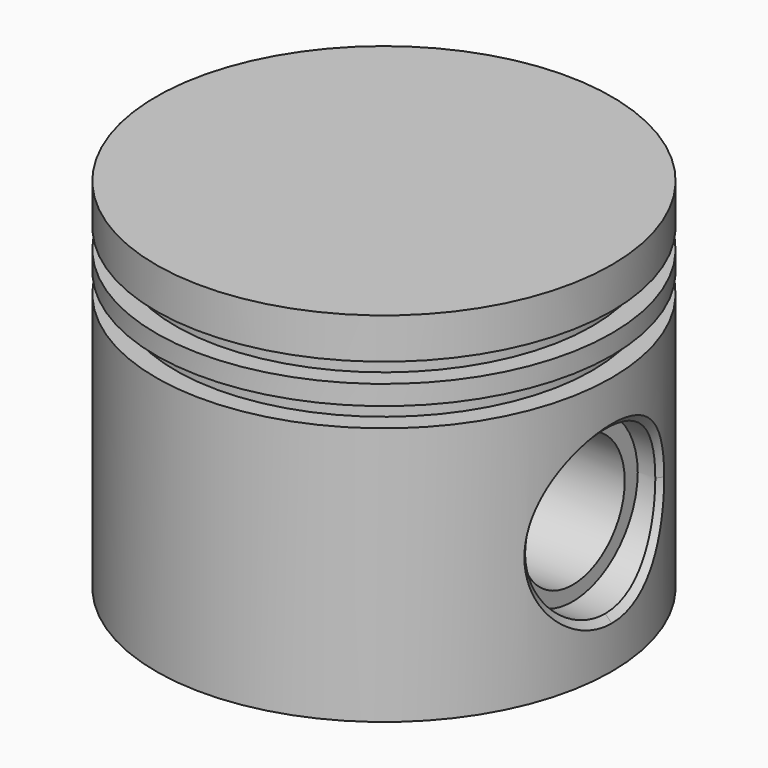
from build123d import *

# Parameters (mm, degrees)
SKETCH020_R     = 12.5
POCKET002_DEPTH = 43
SKETCH022_R     = 12.5
SKETCH022_R_2   = 10
PAD011_DEPTH    = 29
POCKET003_DEPTH = 14
SKETCH024_W     = 3
SKETCH024_H     = 3
CHAMFER005_SIZE = 1
CHAMFER006_SIZE = 1


with BuildPart() as part:
    # Sketch019 → Revolution001 (revolve)
    with BuildSketch(Plane.XZ):
        Polygon((0, 55), (0, 45), (25, 45), (25, 0), (35, 0), (35, 55), align=None)
    revolve(axis=Axis((0, 0, 0), (0, 0, 1)))

    # Sketch020 → Pocket002 (cut, symmetric)
    with BuildSketch(Plane.YZ):
        with Locations((0, 20)):
            Circle(SKETCH020_R)
    extrude(amount=POCKET002_DEPTH, both=True, mode=Mode.SUBTRACT)

    # Sketch022 → Pad011 (join, symmetric)
    with BuildSketch(Plane.YZ):
        with Locations((0, 19.761017)):
            Circle(SKETCH022_R)
        with Locations((0, 19.761017)):
            Circle(SKETCH022_R_2, mode=Mode.SUBTRACT)
    extrude(amount=PAD011_DEPTH, both=True)

    # Sketch022 → Pocket003 (cut, symmetric)
    with BuildSketch(Plane.YZ):
        with Locations((0, 19.761017)):
            Circle(SKETCH022_R)
        with Locations((0, 19.761017)):
            Circle(SKETCH022_R_2, mode=Mode.SUBTRACT)
    extrude(amount=POCKET003_DEPTH, both=True, mode=Mode.SUBTRACT)

    # Sketch024 → Groove003 (revolve, cut)
    with BuildSketch(Plane.XZ):
        with Locations((33.5, 41.23)):
            Rectangle(SKETCH024_W, SKETCH024_H)
        with Locations((33.5, 47.24)):
            Rectangle(SKETCH024_W, SKETCH024_H)
    revolve(axis=Axis((0, 0, 0), (0, 0, 1)), mode=Mode.SUBTRACT)

    # Chamfer005
    chamfer005_edges = [part.edges().sort_by_distance(p)[0] for p in [
        (-32.691742, -12.5, 20),
    ]]
    chamfer(chamfer005_edges, length=CHAMFER005_SIZE)

    # Chamfer006
    chamfer006_edges = [part.edges().sort_by_distance(p)[0] for p in [
        (32.691742, -12.5, 20),
        (33.865108, 8.840501, 28.837168),
        (33.865108, 8.840501, 11.162832),
    ]]
    chamfer(chamfer006_edges, length=CHAMFER006_SIZE)


solid = part.part
